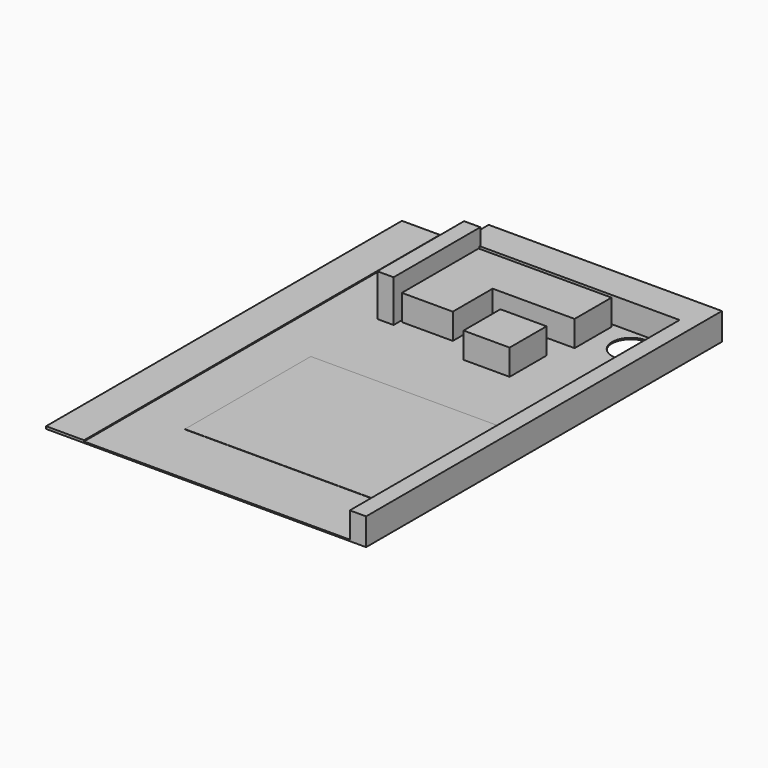
from build123d import *

# Parameters (mm, degrees)
F0_W     = 4000
F0_H     = 600
F1_DEPTH = 500
F0_R     = 350
F2_DEPTH = 25
F0_W_2   = 700
F0_H_2   = 8200
F3_DEPTH = 45
F4_DEPTH = 30
F5_W     = 939.1110420227
F5_H     = 918.7512397766
F5_W_2   = 850
F5_H_2   = 850
F6_DEPTH = 500
F7_W     = 300
F7_H     = 2000
F8_DEPTH = 800


with BuildPart() as f1:
    # F0 (on Top) → F1 (new body)
    with BuildSketch(Plane.XY):
        with Locations((3600, -300)):
            Rectangle(F0_W, F0_H)
        Polygon((5900, 0), (5600, 0), (5600, -600), (5600, -4100), (5600, -7000), (5600, -8200), (5900, -8200), align=None)
    extrude(amount=F1_DEPTH)


with BuildPart() as f2:
    # F0 (on Top) → F2 (new body)
    with BuildSketch(Plane.XY):
        Polygon((1600, 0), (700, 0), (700, -8200), (5600, -8200), (5600, -7000), (2500, -7000), (1600, -7000), (1600, -4100), (5600, -4100), (5600, -600), (1600, -600), align=None)
        with Locations((5047.7161407471, -1030.4815769196)):
            Circle(F0_R, mode=Mode.SUBTRACT)
    extrude(amount=F2_DEPTH)

    # F5 (on Top) → F6 (join)
    with BuildSketch(Plane.XY):
        Polygon((4397.9195594788, -667.3370838165), (1947.9195594788, -667.3370838165), (1947.9195594788, -1517.3370838165), (2887.0306015015, -1517.3370838165), (4397.9195594788, -1517.3370838165), align=None)
        with Locations((2417.4750804901, -1976.7127037048)):
            Rectangle(F5_W, F5_H)
        with Locations((3801.0003089905, -2374.9387979507)):
            Rectangle(F5_W_2, F5_H_2)
    extrude(amount=F6_DEPTH)

    # F7 (on Top) → F8 (join)
    with BuildSketch(Plane.XY):
        with Locations((1761.9111299515, -1581.628203392)):
            Rectangle(F7_W, F7_H)
    extrude(amount=F8_DEPTH)


with BuildPart() as f3:
    # F0 (on Top) → F3 (new body)
    with BuildSketch(Plane.XY):
        with Locations((350, -4100)):
            Rectangle(F0_W_2, F0_H_2)
    extrude(amount=F3_DEPTH)


with BuildPart() as f4:
    # F0 (on Top) → F4 (new body)
    with BuildSketch(Plane.XY):
        Polygon((2500, -7000), (5600, -7000), (5600, -4100), (1600, -4100), (1600, -7000), align=None)
    extrude(amount=F4_DEPTH)


solid = Compound([f1.part, f2.part, f3.part, f4.part])
